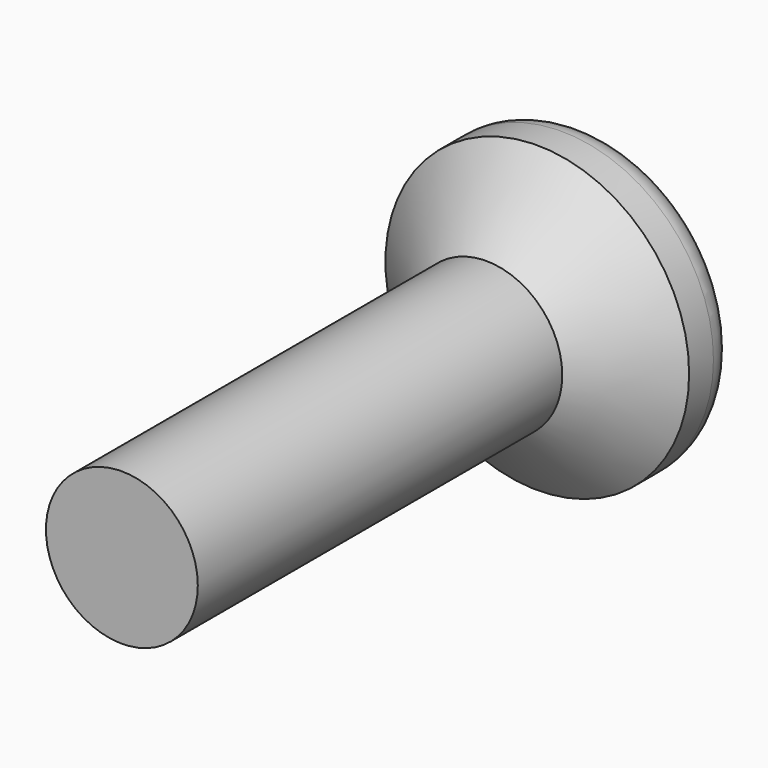
from build123d import *


with BuildPart() as f1:
    # F0 (on Top) → F1 (revolve)
    with BuildSketch(Plane.XY):
        with BuildLine():
            Line((0, 19.097749), (0, 0))
            Line((0, 0), (2.5, 0))
            Line((2.5, 0), (2.5, 15))
            Line((2.5, 15), (5, 17.097749))
            Line((5, 17.097749), (5, 18.097749))
            ThreePointArc((5, 18.097749), (4.707107, 18.804856), (4, 19.097749))
            Line((4, 19.097749), (0, 19.097749))
        make_face()
    revolve(axis=Axis((0, 9.548875, 0), (0, 1, 0)))


solid = f1.part
